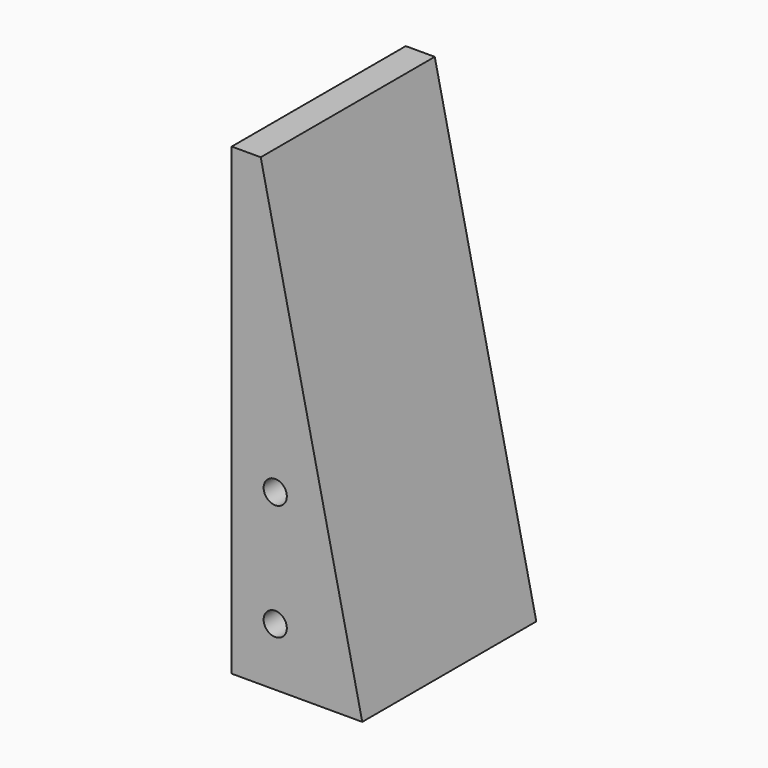
from build123d import *

# Parameters (mm, degrees)
F1_DEPTH = 75
F3_D     = 8
F3_DEPTH = 20
F3_TIP   = 2.4034424761


with BuildPart() as f1:
    # F0 (on Front) → F1 (new body)
    with BuildSketch(Plane.XZ):
        Polygon((-31.7075045779, 35.5722052749), (-41.7075045779, 35.5722052749), (-41.7075045779, -124.4277947251), (3.2924954221, -124.4277947251), align=None)
    extrude(amount=F1_DEPTH)

    # F3
    with Locations(Plane.XZ.offset(75)):
        with Locations((-26.7075045779, -64.4277947251), (-26.7075045779, -104.4277947251)):
            Hole(F3_D / 2, depth=F3_DEPTH)
            with Locations((0, 0, -(F3_DEPTH + F3_TIP / 2))):  # 118° drill point
                Cone(0, F3_D / 2, F3_TIP, mode=Mode.SUBTRACT)


solid = f1.part
